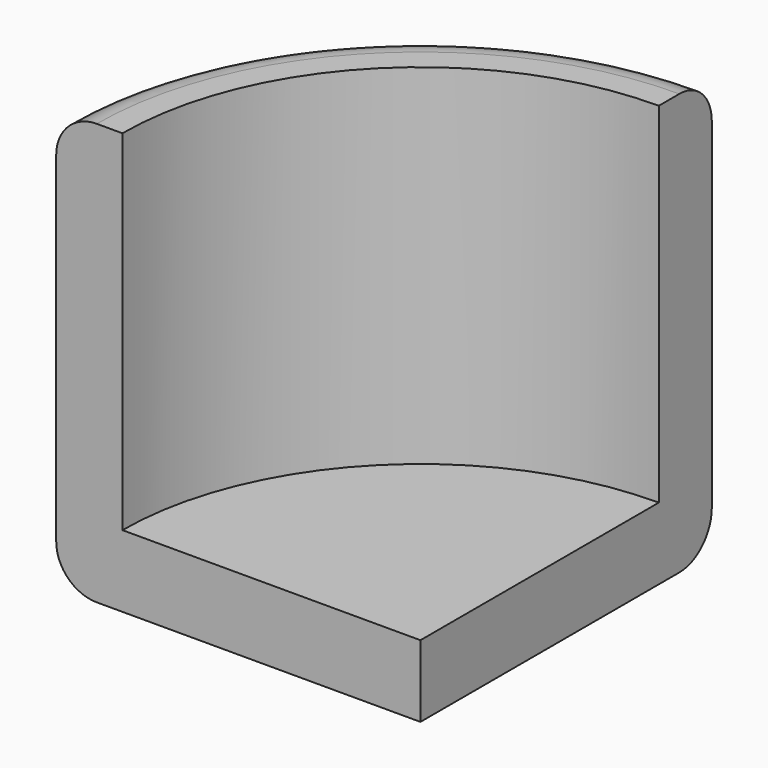
from build123d import *

# Parameters (mm, degrees)
F1_ANGLE = 90
F2_R     = 5


with BuildPart() as f1:
    # F0 (on Front) → F1 (revolve)
    with BuildSketch(Plane.XZ):
        Polygon((-44.935193, 0), (0, 0), (0, 8.874348), (-36.765158, 8.874348), (-36.765158, 51.978327), (-44.935193, 51.978327), align=None)
    revolve(axis=Axis((0, 0, 4.437174), (0, 0, -1)), revolution_arc=F1_ANGLE)

    # F2
    f2_edges = [f1.edges().sort_by_distance(p)[0] for p in [
        (-31.77398, 31.77398, 51.978327),
        (-31.77398, 31.77398, 0),
    ]]
    fillet(f2_edges, radius=F2_R)


solid = f1.part
